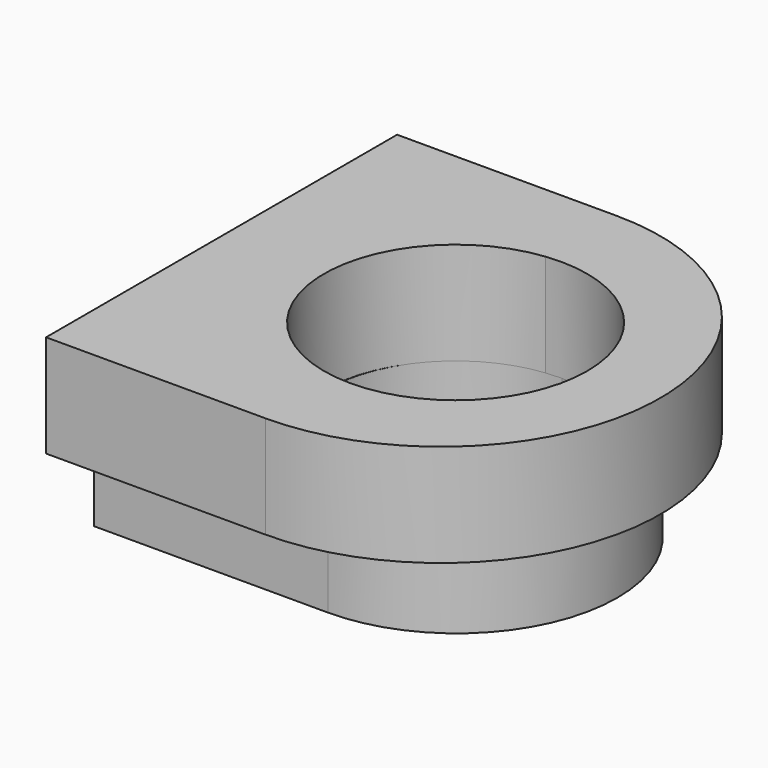
from build123d import *

# Parameters (mm, degrees)
F1_DEPTH = 3.5
F3_DEPTH = 3


with BuildPart() as f1:
    # F0 (on Top) → F1 (new body)
    with BuildSketch(Plane.XY):
        with BuildLine():
            Line((-41.077644, 41.93693), (-48.577644, 41.93693))
            Line((-48.577644, 41.93693), (-48.577644, 26.93693))
            Line((-48.577644, 26.93693), (-41.077644, 26.93693))
            Line((-41.077644, 26.93693), (-41.077644, 29.964794))
            ThreePointArc((-41.077644, 29.964794), (-45.077644, 34.43693), (-41.077644, 38.909066))
            Line((-41.077644, 38.909066), (-41.077644, 41.93693))
        make_face()
        with BuildLine():
            ThreePointArc((-41.077644, 26.93693), (-33.577644, 34.43693), (-41.077644, 41.93693))
            Line((-41.077644, 41.93693), (-41.077644, 38.909066))
            ThreePointArc((-41.077644, 38.909066), (-37.577644, 37.791032), (-36.077644, 34.43693))
            ThreePointArc((-36.077644, 34.43693), (-37.577644, 31.082828), (-41.077644, 29.964794))
            Line((-41.077644, 29.964794), (-41.077644, 26.93693))
        make_face()
    extrude(amount=F1_DEPTH)

    # F2 (on Top) → F3 (join)
    with BuildSketch(Plane.XY):
        with BuildLine():
            Line((-40.561818, 39.95863), (-48.561818, 39.95863))
            Line((-48.561818, 39.95863), (-48.561818, 28.95863))
            Line((-48.561818, 28.95863), (-40.561818, 28.95863))
            Line((-40.561818, 28.95863), (-40.561818, 29.95863))
            ThreePointArc((-40.561818, 29.95863), (-45.061818, 34.45863), (-40.561818, 38.95863))
            Line((-40.561818, 38.95863), (-40.561818, 39.95863))
        make_face()
        with BuildLine():
            ThreePointArc((-40.561818, 28.95863), (-35.061818, 34.45863), (-40.561818, 39.95863))
            Line((-40.561818, 39.95863), (-40.561818, 38.95863))
            ThreePointArc((-40.561818, 38.95863), (-37.379837, 37.64061), (-36.061818, 34.45863))
            ThreePointArc((-36.061818, 34.45863), (-37.379837, 31.276649), (-40.561818, 29.95863))
            Line((-40.561818, 29.95863), (-40.561818, 28.95863))
        make_face()
    extrude(amount=-F3_DEPTH)


solid = f1.part
